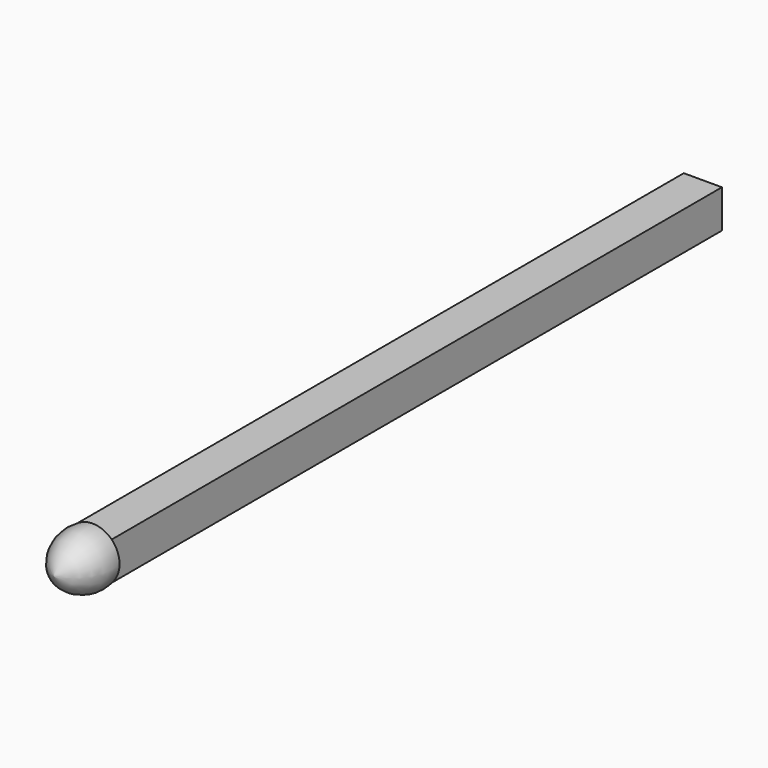
from build123d import *

# Parameters (mm, degrees)
F0_W     = 2.5
F0_H     = 2.5
F1_DEPTH = 50


with BuildPart() as f1:
    # F0 (on Front) → F1 (new body)
    with BuildSketch(Plane.XZ):
        Rectangle(F0_W, F0_H)
    extrude(amount=F1_DEPTH)


with BuildPart() as f4:
    # F3 (on Top) → F4 (revolve)
    with BuildSketch(Plane.XY):
        with BuildLine():
            ThreePointArc((0, -53.141449), (1.488636, -51.911033), (1.767767, -50))
            Line((1.767767, -50), (0, -50))
            Line((0, -50), (0, -53.141449))
        make_face()
    revolve(axis=Axis((0, -51.570724, 0), (0, -1, 0)))


solid = Compound([f1.part, f4.part])
